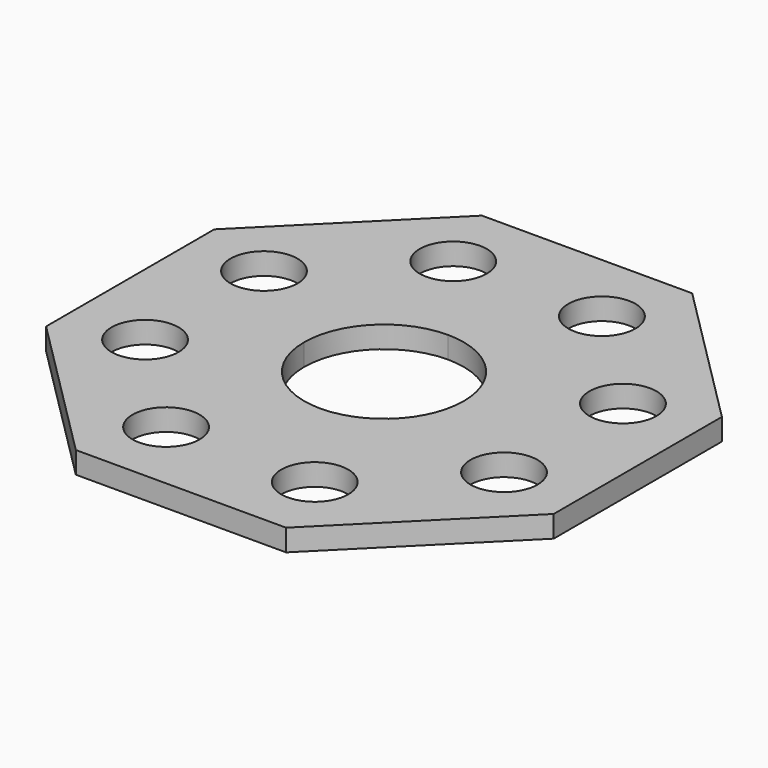
from build123d import *

# Parameters (mm, degrees)
F0_R     = 4.625
F1_DEPTH = 3


with BuildPart() as f1:
    # F0 (on Top) → F1 (new body)
    with BuildSketch(Plane.XY):
        Polygon((35, 14.497475), (14.497475, 35), (-14.497475, 35), (-35, 14.497475), (-35, -14.497475), (-14.497475, -35), (0, -35), (14.497475, -35), (35, -14.497475), align=None)
        with Locations((-10.251263, -24.748737)):
            Circle(F0_R, mode=Mode.SUBTRACT)
        with Locations((-24.748737, -10.251263)):
            Circle(F0_R, mode=Mode.SUBTRACT)
        with Locations((10.251263, -24.748737)):
            Circle(F0_R, mode=Mode.SUBTRACT)
        with Locations((24.748737, -10.251263)):
            Circle(F0_R, mode=Mode.SUBTRACT)
        with Locations((-24.748737, 10.251263)):
            Circle(F0_R, mode=Mode.SUBTRACT)
        with Locations((-10.251263, 24.748737)):
            Circle(F0_R, mode=Mode.SUBTRACT)
        with BuildLine():
            ThreePointArc((0, 11), (7.778175, 7.778175), (11, 0))
            ThreePointArc((11, 0), (7.778175, -7.778175), (0, -11))
            ThreePointArc((0, -11), (-7.778175, -7.778175), (-11, 0))
            ThreePointArc((-11, 0), (-7.778175, 7.778175), (0, 11))
        make_face(mode=Mode.SUBTRACT)
        with Locations((24.748737, 10.251263)):
            Circle(F0_R, mode=Mode.SUBTRACT)
        with Locations((10.251263, 24.748737)):
            Circle(F0_R, mode=Mode.SUBTRACT)
    extrude(amount=F1_DEPTH)


solid = f1.part
